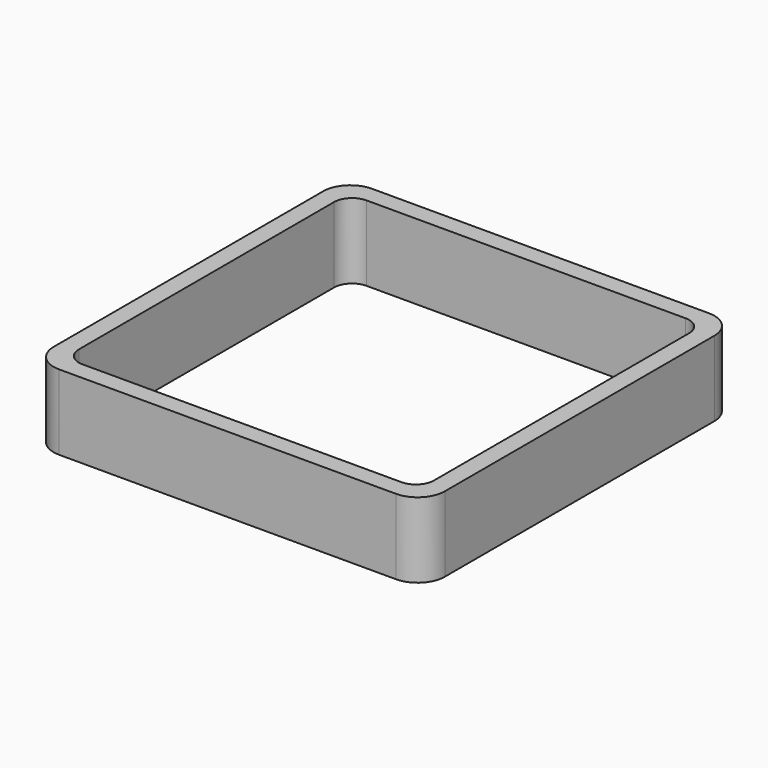
from build123d import *

# Parameters (mm, degrees)
EXTRUDE_DEPTH = 50


with BuildPart() as part:
    # Sketch → Extrude (new body)
    with BuildSketch(Plane.XY):
        with BuildLine():
            Line((-112, 130), (112, 130))
            ThreePointArc((130, 112), (124.727922, 124.727922), (112, 130))
            Line((130, 112), (130, -112))
            ThreePointArc((112, -130), (124.727922, -124.727922), (130, -112))
            Line((112, -130), (-112, -130))
            ThreePointArc((-130, -112), (-124.727922, -124.727922), (-112, -130))
            Line((-130, -112), (-130, 112))
            ThreePointArc((-112, 130), (-124.727922, 124.727922), (-130, 112))
        make_face()
        with BuildLine():
            Line((-106, 118), (106, 118))
            ThreePointArc((118, 106), (114.485281, 114.485281), (106, 118))
            Line((118, 106), (118, -106))
            ThreePointArc((106, -118), (114.485281, -114.485281), (118, -106))
            Line((106, -118), (-106, -118))
            ThreePointArc((-118, -106), (-114.485281, -114.485281), (-106, -118))
            Line((-118, -106), (-118, 106))
            ThreePointArc((-106, 118), (-114.485281, 114.485281), (-118, 106))
        make_face(mode=Mode.SUBTRACT)
    extrude(amount=EXTRUDE_DEPTH)


solid = part.part
